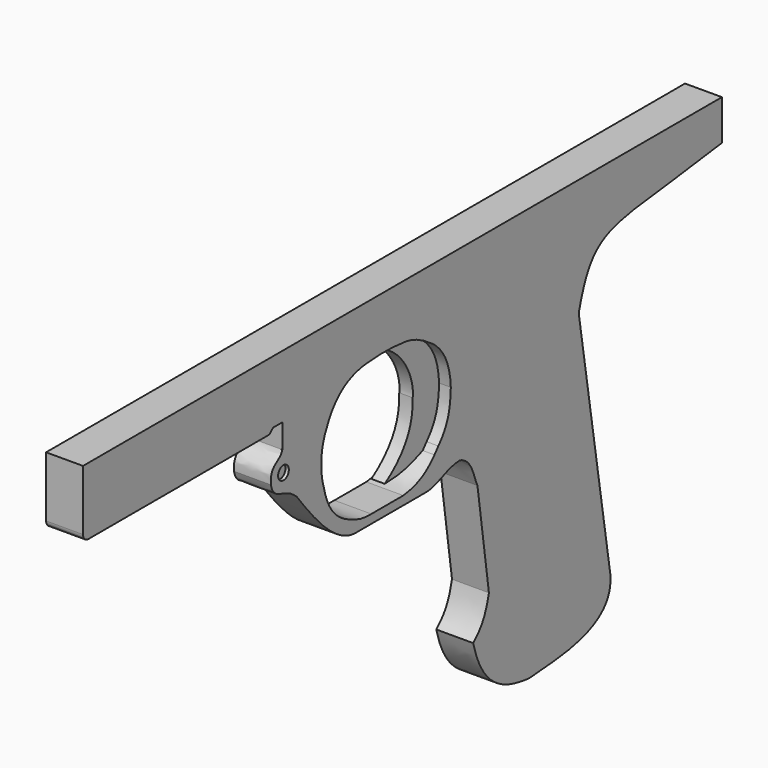
from build123d import *

# Parameters (mm, degrees)
F0_W     = 69.4504092897
F0_H     = 8
F1_DEPTH = 11
F2_DEPTH = 7.5
F3_DEPTH = 3.5
F4_R     = 2
F5_DEPTH = 1
F6_R     = 2
F7_DEPTH = 1
F8_R     = 2


with BuildPart() as f1:
    # F0 (on Right) → F1 (new body)
    with BuildSketch(Plane.YZ):
        Polygon((125.9671086108, -218), (0, -218), (0, -230), (119.9886596101, -230), (125.9671086108, -230), align=None)
        Polygon((0, -230), (0, -218), (-112.0328913892, -218), (-112.0328913892, -230), (-42.5824820995, -230), align=None)
        with BuildLine():
            Line((119.9886596101, -230), (0, -230))
            Line((0, -230), (-42.5824820995, -230))
            Line((-42.5824820995, -230), (-42.5824820995, -238))
            Line((-42.5824820995, -238), (-41.2151366472, -236.7386668921))
            Line((-41.2151366472, -236.7386668921), (-37.7865731716, -236.7386668921))
            Line((-37.7865731716, -236.7386668921), (-37.7865731716, -243.9223229885))
            add(Edge.make_bspline(
                [(-42.0314595103, -251.4325082302), (-42.5212569535, -245.88149786), (-38.4396314621, -246.6978281736), (-37.7865731716, -243.9223229885)],
                knots=[0, 0, 0, 0, 8.62681531, 8.62681531, 8.62681531, 8.62681531], degree=3))
            add(Edge.make_bspline(
                [(-32.398827374, -258.4528923035), (-36.9702465832, -254.0447413921), (-40.8886037767, -256.6569745541), (-42.0314595103, -251.4325082302)],
                knots=[0, 0, 0, 0, 11.919454451, 11.919454451, 11.919454451, 11.919454451], degree=3))
            add(Edge.make_bspline(
                [(-10.8478534967, -276.8577933311), (-18.0315114558, -276.4120399952), (-25.3784339875, -267.5957381725), (-32.398827374, -258.4528923035)],
                knots=[0, 0, 0, 0, 28.3405161721, 28.3405161721, 28.3405161721, 28.3405161721], degree=3))
            Line((-10.8478534967, -276.8577933311), (15.3035437688, -276.8577933311))
            add(Edge.make_bspline(
                [(28.3146612346, -273.5956013203), (22.7218363434, -273.8401889801), (20.3328952193, -276.941627264), (15.3035437688, -276.8577933311)],
                knots=[0, 0, 0, 0, 13.4138389145, 13.4138389145, 13.4138389145, 13.4138389145], degree=3))
            add(Edge.make_bspline(
                [(34.9013535306, -282.8655987978), (33.5207916796, -280.2323997021), (33.0320037901, -274.9298810959), (28.3146612346, -273.5956013203)],
                knots=[0, 0, 0, 0, 11.3717794841, 11.3717794841, 11.3717794841, 11.3717794841], degree=3))
            Line((34.9013535306, -282.8655987978), (30.6285899132, -252.9632747173))
            Line((30.6285899132, -252.9632747173), (72.6285899132, -252.9632747173))
            add(Edge.make_bspline(
                [(125.9671086108, -230), (84.4510868192, -236.0368669033), (78.2147446722, -231.554299593), (72.6285899132, -252.9632747173)],
                knots=[0, 0, 0, 0, 58.0715899782, 58.0715899782, 58.0715899782, 58.0715899782], degree=3))
            Line((125.9671086108, -230), (119.9886596101, -230))
        make_face()
        with BuildLine():
            add(Edge.make_bspline(
                [(-2.2899068426, -233.791783452), (-6.7162262276, -233.9929789305), (-16.5748465806, -233.5905879736), (-21.4035585523, -245.2599704266)],
                knots=[0, 0, 0, 0, 22.2901546464, 22.2901546464, 22.2901546464, 22.2901546464], degree=3))
            add(Edge.make_bspline(
                [(-1.1649398204, -233.7192680463), (-1.5450471165, -233.73570765), (-1.920463643, -233.7595033317), (-2.2899068426, -233.791783452)],
                knots=[0.9357244438, 0.9357244438, 0.9357244438, 0.9357244438, 1, 1, 1, 1], degree=3))
            add(Edge.make_bspline(
                [(18.53771694, -239.1283065081), (12.2761912644, -234.5663458109), (6.8953128785, -233.9907415129), (0.97691075, -233.6266332169), (-1.1649398204, -233.7192680463)],
                knots=[0, 0, 0, 0, 0.5735408235, 0.9357244438, 0.9357244438, 0.9357244438, 0.9357244438], degree=3))
            add(Edge.make_bspline(
                [(24.9781440943, -253.0825734138), (24.7097946703, -247.3577409983), (23.0102371424, -242.7957803011), (18.53771694, -239.1283065081)],
                knots=[0, 0, 0, 0, 15.3688212563, 15.3688212563, 15.3688212563, 15.3688212563], degree=3))
            add(Edge.make_bspline(
                [(20.3267261386, -266.5895819664), (23.9941906184, -262.5643014908), (24.7992426157, -258.628487587), (24.9781440943, -253.0825734138)],
                knots=[0, 0, 0, 0, 14.2854810573, 14.2854810573, 14.2854810573, 14.2854810573], degree=3))
            add(Edge.make_bspline(
                [(18.8836723567, -268.3176113068), (19.3763812768, -267.758725569), (19.8515536715, -267.1799487583), (20.3267261386, -266.5895819664)],
                knots=[12.7076946491, 12.7076946491, 12.7076946491, 12.7076946491, 15.1457642124, 15.1457642124, 15.1457642124, 15.1457642124], degree=3))
            add(Edge.make_bspline(
                [(7.2669684887, -274.2601037025), (13.2710677225, -273.603274134), (16.3155772532, -271.2306329063), (18.8836723567, -268.3176113068)],
                knots=[0, 0, 0, 0, 12.7076946491, 12.7076946491, 12.7076946491, 12.7076946491], degree=3))
            Line((7.2669684887, -274.2601037025), (-4.6425154433, -274.2601037025))
            add(Edge.make_bspline(
                [(-13.254606165, -272.155880928), (-8.8760508224, -274.2601037025), (-7.2994241491, -274.2016911507), (-4.6425154433, -274.2601037025)],
                knots=[0, 0, 0, 0, 8.8654306203, 8.8654306203, 8.8654306203, 8.8654306203], degree=3))
            add(Edge.make_bspline(
                [(-22.3616603762, -259.9363029003), (-21.093590185, -266.046077013), (-18.2116106153, -269.9655890465), (-13.254606165, -272.155880928)],
                knots=[0, 0, 0, 0, 15.2399646844, 15.2399646844, 15.2399646844, 15.2399646844], degree=3))
            add(Edge.make_bspline(
                [(-21.4035585523, -245.2599704266), (-23.62973243, -249.4458854198), (-23.7450096756, -255.9015154839), (-22.3616603762, -259.9363029003)],
                knots=[0, 0, 0, 0, 14.7075726748, 14.7075726748, 14.7075726748, 14.7075726748], degree=3))
        make_face(mode=Mode.SUBTRACT)
        with Locations((-77.3076867444, -234)):
            Rectangle(F0_W, F0_H)
        with BuildLine():
            Line((84.3787366599, -326.129257679), (72.6285899132, -252.9632747173))
            Line((72.6285899132, -252.9632747173), (30.6285899132, -252.9632747173))
            Line((30.6285899132, -252.9632747173), (34.9013535306, -282.8655987978))
            Line((34.9013535306, -282.8655987978), (39.1741171479, -312.7679228783))
            add(Edge.make_bspline(
                [(39.1741171479, -312.7679228783), (37.5588834286, -320.5303251743), (34.5356166363, -322.179377079), (33.2988277078, -323.5535919666)],
                knots=[0, 0, 0, 0, 12.2820879206, 12.2820879206, 12.2820879206, 12.2820879206], degree=3))
            add(Edge.make_bspline(
                [(33.2988277078, -323.5535919666), (37.0091982186, -338.8073444366), (47.0409430563, -340.4563963413), (54.0494211018, -341.2809073925)],
                knots=[0, 0, 0, 0, 27.2918456396, 27.2918456396, 27.2918456396, 27.2918456396], degree=3))
            add(Edge.make_bspline(
                [(54.0494211018, -341.2809073925), (62.8443732858, -340.3189778328), (86.0685482621, -340.8686518669), (84.3787366599, -326.129257679)],
                knots=[0, 0, 0, 0, 33.9033902621, 33.9033902621, 33.9033902621, 33.9033902621], degree=3))
        make_face()
    extrude(amount=F1_DEPTH)

    # F0 (on Right) → F2 (join)
    with BuildSketch(Plane.YZ):
        with BuildLine():
            add(Edge.make_bspline(
                [(18.53771694, -239.1283065081), (12.2761912644, -234.5663458109), (6.8953128785, -233.9907415129), (0.97691075, -233.6266332169), (-1.1649398204, -233.7192680463)],
                knots=[0, 0, 0, 0, 0.5735408235, 0.9357244438, 0.9357244438, 0.9357244438, 0.9357244438], degree=3))
            add(Edge.make_bspline(
                [(-1.1649398204, -233.7192680463), (12.3649053276, -237.1022552252), (15.8728584647, -248.8357573748), (15.1470759884, -252.9485225677)],
                knots=[0, 0, 0, 0, 25.215988761, 25.215988761, 25.215988761, 25.215988761], degree=3))
            add(Edge.make_bspline(
                [(15.1470759884, -252.9485225677), (15.2591429651, -257.8095793724), (14.3406344578, -265.0264501572), (4.7619077377, -271.3247835636)],
                knots=[0, 0, 0, 0, 21.107787373, 21.107787373, 21.107787373, 21.107787373], degree=3))
            add(Edge.make_bspline(
                [(4.7619077377, -271.3247835636), (7.9766856506, -271.1279392242), (11.5851107985, -271.3903784752), (18.8836723567, -268.3176113068)],
                knots=[0, 0, 0, 0, 14.4383974504, 14.4383974504, 14.4383974504, 14.4383974504], degree=3))
            add(Edge.make_bspline(
                [(18.8836723567, -268.3176113068), (19.3763812768, -267.758725569), (19.8515536715, -267.1799487583), (20.3267261386, -266.5895819664)],
                knots=[12.7076946491, 12.7076946491, 12.7076946491, 12.7076946491, 15.1457642124, 15.1457642124, 15.1457642124, 15.1457642124], degree=3))
            add(Edge.make_bspline(
                [(20.3267261386, -266.5895819664), (23.9941906184, -262.5643014908), (24.7992426157, -258.628487587), (24.9781440943, -253.0825734138)],
                knots=[0, 0, 0, 0, 14.2854810573, 14.2854810573, 14.2854810573, 14.2854810573], degree=3))
            add(Edge.make_bspline(
                [(24.9781440943, -253.0825734138), (24.7097946703, -247.3577409983), (23.0102371424, -242.7957803011), (18.53771694, -239.1283065081)],
                knots=[0, 0, 0, 0, 15.3688212563, 15.3688212563, 15.3688212563, 15.3688212563], degree=3))
        make_face()
    extrude(amount=F2_DEPTH)

    # F0 (on Right) → F3 (cut)
    with BuildSketch(Plane.YZ):
        with BuildLine():
            add(Edge.make_bspline(
                [(18.53771694, -239.1283065081), (12.2761912644, -234.5663458109), (6.8953128785, -233.9907415129), (0.97691075, -233.6266332169), (-1.1649398204, -233.7192680463)],
                knots=[0, 0, 0, 0, 0.5735408235, 0.9357244438, 0.9357244438, 0.9357244438, 0.9357244438], degree=3))
            add(Edge.make_bspline(
                [(-1.1649398204, -233.7192680463), (12.3649053276, -237.1022552252), (15.8728584647, -248.8357573748), (15.1470759884, -252.9485225677)],
                knots=[0, 0, 0, 0, 25.215988761, 25.215988761, 25.215988761, 25.215988761], degree=3))
            add(Edge.make_bspline(
                [(15.1470759884, -252.9485225677), (15.2591429651, -257.8095793724), (14.3406344578, -265.0264501572), (4.7619077377, -271.3247835636)],
                knots=[0, 0, 0, 0, 21.107787373, 21.107787373, 21.107787373, 21.107787373], degree=3))
            add(Edge.make_bspline(
                [(4.7619077377, -271.3247835636), (7.9766856506, -271.1279392242), (11.5851107985, -271.3903784752), (18.8836723567, -268.3176113068)],
                knots=[0, 0, 0, 0, 14.4383974504, 14.4383974504, 14.4383974504, 14.4383974504], degree=3))
            add(Edge.make_bspline(
                [(18.8836723567, -268.3176113068), (19.3763812768, -267.758725569), (19.8515536715, -267.1799487583), (20.3267261386, -266.5895819664)],
                knots=[12.7076946491, 12.7076946491, 12.7076946491, 12.7076946491, 15.1457642124, 15.1457642124, 15.1457642124, 15.1457642124], degree=3))
            add(Edge.make_bspline(
                [(20.3267261386, -266.5895819664), (23.9941906184, -262.5643014908), (24.7992426157, -258.628487587), (24.9781440943, -253.0825734138)],
                knots=[0, 0, 0, 0, 14.2854810573, 14.2854810573, 14.2854810573, 14.2854810573], degree=3))
            add(Edge.make_bspline(
                [(24.9781440943, -253.0825734138), (24.7097946703, -247.3577409983), (23.0102371424, -242.7957803011), (18.53771694, -239.1283065081)],
                knots=[0, 0, 0, 0, 15.3688212563, 15.3688212563, 15.3688212563, 15.3688212563], degree=3))
        make_face()
    extrude(amount=F3_DEPTH, mode=Mode.SUBTRACT)

    # F4 (on face) → F5 (cut)
    with BuildSketch(Plane.YZ.offset(11)):
        with Locations((-37.3534969985, -250.1350045204)):
            Circle(F4_R)
    extrude(amount=-F5_DEPTH, mode=Mode.SUBTRACT)

    # F6 (on face) → F7 (cut)
    with BuildSketch(Plane.YZ):
        with Locations((-36.9937494397, -250.1918673515)):
            Circle(F6_R)
    extrude(amount=F7_DEPTH, mode=Mode.SUBTRACT)

    # F8
    f8_edges = [f1.edges().sort_by_distance(p)[0] for p in [
        (5.5, -112.032891, -238),
    ]]
    fillet(f8_edges, radius=F8_R)


solid = f1.part
